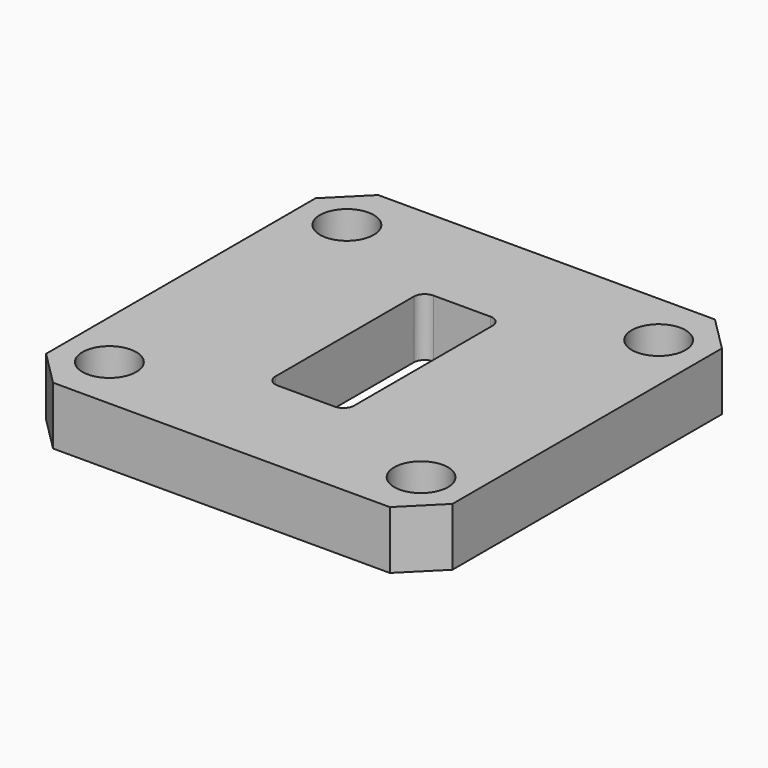
from build123d import *

# Parameters (mm, degrees)
F0_W     = 22.2504
F0_H     = 22.2504
F0_R     = 1.4732
F0_W_2   = 4.318
F0_H_2   = 10.668
F1_DEPTH = 3.175
F2_SIZE  = 1.905
F3_R     = 0.5969


with BuildPart() as f1:
    # F0 (on Top) → F1 (new body)
    with BuildSketch(Plane.XY):
        Rectangle(F0_W, F0_H)
        with Locations((-8.5344, -8.128)):
            Circle(F0_R, mode=Mode.SUBTRACT)
        with Locations((8.5344, -8.128)):
            Circle(F0_R, mode=Mode.SUBTRACT)
        with Locations((-8.5344, 8.128)):
            Circle(F0_R, mode=Mode.SUBTRACT)
        Rectangle(F0_W_2, F0_H_2, mode=Mode.SUBTRACT)
        with Locations((8.5344, 8.128)):
            Circle(F0_R, mode=Mode.SUBTRACT)
    extrude(amount=F1_DEPTH)

    # F2
    f2_edges = [f1.edges().sort_by_distance(p)[0] for p in [
        (-11.1252, -11.1252, 1.5875),
        (-11.1252, 11.1252, 1.5875),
        (11.1252, 11.1252, 1.5875),
        (11.1252, -11.1252, 1.5875),
    ]]
    chamfer(f2_edges, length=F2_SIZE)

    # F3
    f3_edges = [f1.edges().sort_by_distance(p)[0] for p in [
        (2.159, -5.334, 1.5875),
        (-2.159, -5.334, 1.5875),
        (-2.159, 5.334, 1.5875),
        (2.159, 5.334, 1.5875),
    ]]
    fillet(f3_edges, radius=F3_R)


solid = f1.part
